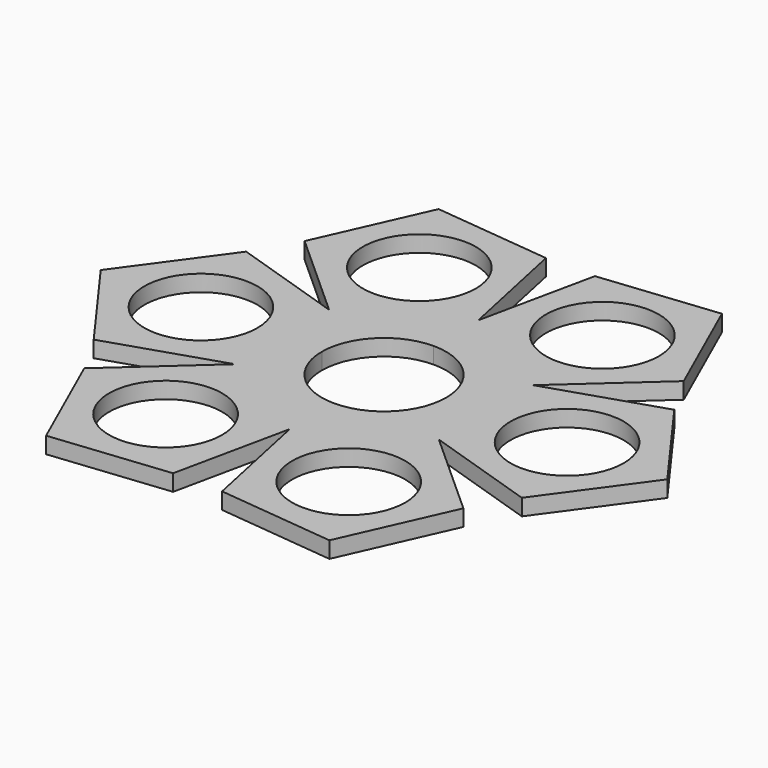
from build123d import *

# Parameters (mm, degrees)
F0_R     = 10
F1_DEPTH = 2.9


with BuildPart() as f1:
    # F0 (on Top) → F1 (new body)
    with BuildSketch(Plane.XY):
        with BuildLine():
            ThreePointArc((-11, 0), (-7.778175, 7.778175), (0, 11))
            Line((0, 11), (0, 20.842802))
            Line((0, 20.842802), (-4.333462, 41.23014))
            Line((-4.333462, 41.23014), (-25.062086, 43.408806))
            Line((-25.062086, 43.408806), (-33.539617, 24.367958))
            Line((-33.539617, 24.367958), (-18.050396, 10.421401))
            Line((-18.050396, 10.421401), (-37.873079, 16.862181))
            Line((-37.873079, 16.862181), (-50.124171, 0))
            Line((-50.124171, 0), (-42.394225, 0))
            ThreePointArc((-42.394225, 0), (-32.394225, 10), (-22.394225, 0))
            Line((-22.394225, 0), (-11, 0))
        make_face()
        with Locations((-16.197112, 28.054221)):
            Circle(F0_R, mode=Mode.SUBTRACT)
        with BuildLine():
            Line((0, 20.842802), (0, 11))
            ThreePointArc((0, 11), (7.778175, 7.778175), (11, 0))
            Line((11, 0), (22.394225, 0))
            ThreePointArc((22.394225, 0), (32.394225, 10), (42.394225, 0))
            Line((42.394225, 0), (50.124171, 0))
            Line((50.124171, 0), (37.873079, 16.862181))
            Line((37.873079, 16.862181), (18.050396, 10.421401))
            Line((18.050396, 10.421401), (33.539617, 24.367958))
            Line((33.539617, 24.367958), (25.062086, 43.408806))
            Line((25.062086, 43.408806), (4.333462, 41.23014))
            Line((4.333462, 41.23014), (0, 20.842802))
        make_face()
        with Locations((16.197112, 28.054221)):
            Circle(F0_R, mode=Mode.SUBTRACT)
        with BuildLine():
            ThreePointArc((11, 0), (7.778175, -7.778175), (0, -11))
            Line((0, -11), (0, -20.842802))
            Line((0, -20.842802), (4.333462, -41.23014))
            Line((4.333462, -41.23014), (25.062086, -43.408806))
            Line((25.062086, -43.408806), (33.539617, -24.367958))
            Line((33.539617, -24.367958), (18.050396, -10.421401))
            Line((18.050396, -10.421401), (37.873079, -16.862181))
            Line((37.873079, -16.862181), (50.124171, 0))
            Line((50.124171, 0), (42.394225, 0))
            ThreePointArc((42.394225, 0), (32.394225, -10), (22.394225, 0))
            Line((22.394225, 0), (11, 0))
        make_face()
        with Locations((16.197112, -28.054221)):
            Circle(F0_R, mode=Mode.SUBTRACT)
        with BuildLine():
            Line((0, -20.842802), (0, -11))
            ThreePointArc((0, -11), (-7.778175, -7.778175), (-11, 0))
            Line((-11, 0), (-22.394225, 0))
            ThreePointArc((-22.394225, 0), (-32.394225, -10), (-42.394225, 0))
            Line((-42.394225, 0), (-50.124171, 0))
            Line((-50.124171, 0), (-37.873079, -16.862181))
            Line((-37.873079, -16.862181), (-18.050396, -10.421401))
            Line((-18.050396, -10.421401), (-33.539617, -24.367958))
            Line((-33.539617, -24.367958), (-25.062086, -43.408806))
            Line((-25.062086, -43.408806), (-4.333462, -41.23014))
            Line((-4.333462, -41.23014), (0, -20.842802))
        make_face()
        with Locations((-16.197112, -28.054221)):
            Circle(F0_R, mode=Mode.SUBTRACT)
    extrude(amount=F1_DEPTH)


solid = f1.part
